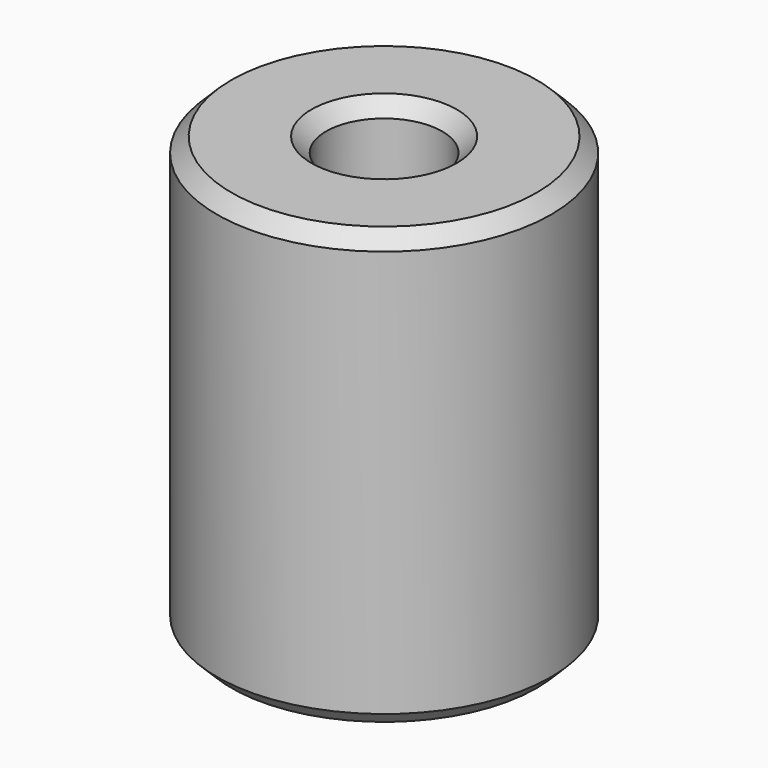
from build123d import *

# Parameters (mm, degrees)
F0_R     = 11.5
F0_R_2   = 4
F1_DEPTH = 30
F2_SIZE  = 1


with BuildPart() as f1:
    # F0 (on Top) → F1 (new body)
    with BuildSketch(Plane.XY):
        Circle(F0_R)
        Circle(F0_R_2, mode=Mode.SUBTRACT)
    extrude(amount=F1_DEPTH)

    # F2
    f2_edges = [f1.edges().sort_by_distance(p)[0] for p in [
        (-4, 0, 30),
        (-11.5, 0, 30),
        (-4, 0, 0),
        (11.5, 0, 15),
        (-11.5, 0, 0),
    ]]
    chamfer(f2_edges, length=F2_SIZE)


solid = f1.part
